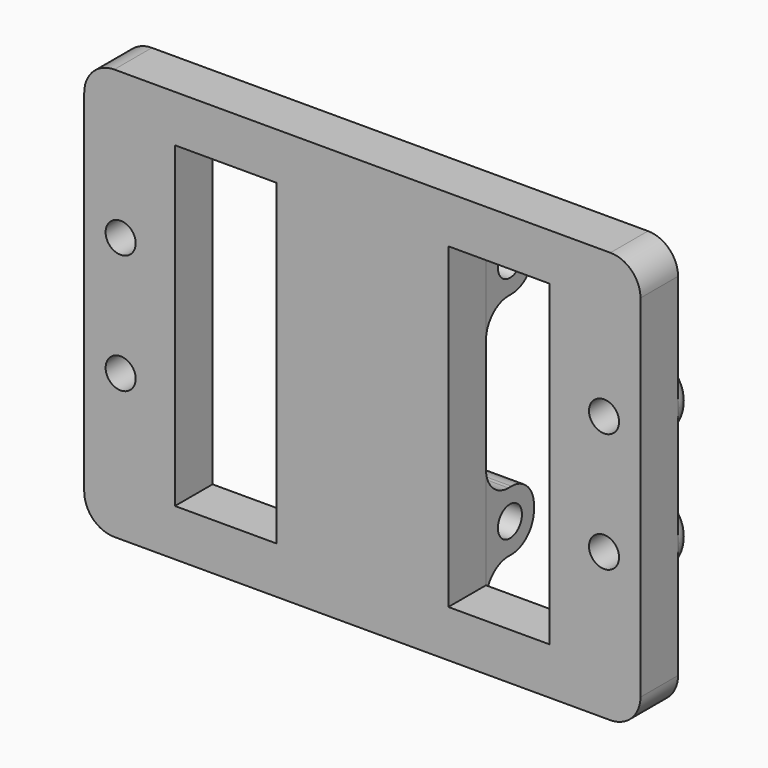
from build123d import *

# Parameters (mm, degrees)
SKETCH053_W     = 59.2
SKETCH053_H     = 43.8
SKETCH053_R     = 1.6
PAD029_DEPTH    = 5
SKETCH054_R     = 3.875
SKETCH054_R_2   = 1.6
PAD030_DEPTH    = 2
SKETCH055_W     = 6.35
SKETCH055_H     = 6.4
PAD031_DEPTH    = 6.4
SKETCH056_W     = 10.79
SKETCH056_H     = 33.8
POCKET025_DEPTH = 5
SKETCH057_R     = 1.6
POCKET026_DEPTH = 19.05
FILLET024_R     = 1.9
FILLET025_R     = 3
FILLET026_R     = 3.2


with BuildPart() as part:
    # Sketch053 → Pad029 (new body)
    with BuildSketch(Plane.XZ):
        Rectangle(SKETCH053_W, SKETCH053_H)
        with Locations((25.725, 6.35)):
            Circle(SKETCH053_R, mode=Mode.SUBTRACT)
        with Locations((-25.725, 6.35)):
            Circle(SKETCH053_R, mode=Mode.SUBTRACT)
        with Locations((-25.725, -6.35)):
            Circle(SKETCH053_R, mode=Mode.SUBTRACT)
        with Locations((25.725, -6.35)):
            Circle(SKETCH053_R, mode=Mode.SUBTRACT)
    extrude(amount=PAD029_DEPTH)

    # Sketch054 (on Face9 of Pad029) → Pad030 (join)
    with BuildSketch(Plane(origin=(0, 0, 0), x_dir=(1, 0, 0), z_dir=(0, 1, 0))):
        with Locations((-25.725, 6.35)):
            Circle(SKETCH054_R)
        with Locations((-25.725, 6.35)):
            Circle(SKETCH054_R_2, mode=Mode.SUBTRACT)
        with Locations((-25.725, -6.35)):
            Circle(SKETCH054_R)
        with Locations((-25.725, -6.35)):
            Circle(SKETCH054_R_2, mode=Mode.SUBTRACT)
        with Locations((25.725, -6.35)):
            Circle(SKETCH054_R)
        with Locations((25.725, -6.35)):
            Circle(SKETCH054_R_2, mode=Mode.SUBTRACT)
        with Locations((25.725, 6.35)):
            Circle(SKETCH054_R)
        with Locations((25.725, 6.35)):
            Circle(SKETCH054_R_2, mode=Mode.SUBTRACT)
    extrude(amount=PAD030_DEPTH)

    # Sketch055 (on Face4 of Pad030) → Pad031 (join)
    with BuildSketch(Plane(origin=(0, 0, 0), x_dir=(1, 0, 0), z_dir=(0, 1, 0))):
        with Locations((5.975, 12.2)):
            Rectangle(SKETCH055_W, SKETCH055_H)
        with Locations((5.975, -12.2)):
            Rectangle(SKETCH055_W, SKETCH055_H)
        with Locations((-5.975, -12.2)):
            Rectangle(SKETCH055_W, SKETCH055_H)
        with Locations((-5.975, 12.2)):
            Rectangle(SKETCH055_W, SKETCH055_H)
    extrude(amount=PAD031_DEPTH)

    # Sketch056 (on Face4 of Pad031) → Pocket025 (cut)
    with BuildSketch(Plane(origin=(0, 0, 0), x_dir=(1, 0, 0), z_dir=(0, 1, 0))):
        with Locations((-14.55, 0)):
            Rectangle(SKETCH056_W, SKETCH056_H)
        with Locations((14.55, 0)):
            Rectangle(SKETCH056_W, SKETCH056_H)
    extrude(amount=-POCKET025_DEPTH, mode=Mode.SUBTRACT)

    # Sketch057 (on Face8 of Pocket025) → Pocket026 (cut)
    with BuildSketch(Plane(origin=(-9.15, 0, 0), x_dir=(0, 0, -1), z_dir=(-1, 0, 0))):
        with Locations((-12.2, -3.2)):
            Circle(SKETCH057_R)
        with Locations((12.2, -3.2)):
            Circle(SKETCH057_R)
    extrude(amount=-POCKET026_DEPTH, mode=Mode.SUBTRACT)

    # Fillet024
    fillet024_edges = [part.edges().sort_by_distance(p)[0] for p in [
        (21.85, 2, 6.35),
        (21.85, 2, -6.35),
        (-29.6, 2, -6.35),
        (-29.6, 2, 6.35),
    ]]
    fillet(fillet024_edges, radius=FILLET024_R)

    # Fillet025
    fillet025_edges = [part.edges().sort_by_distance(p)[0] for p in [
        (5.975, 6.4, -15.4),
        (-5.975, 6.4, -15.4),
        (5.975, 6.4, 9),
        (-5.975, 6.4, 9),
        (5.975, 6.4, 15.4),
        (-5.975, 6.4, 15.4),
        (-5.975, 6.4, -9),
        (5.975, 6.4, -9),
        (5.975, 0, 15.4),
        (-5.975, 0, 15.4),
        (-5.975, 0, -9),
        (5.975, 0, -9),
        (5.975, 0, -15.4),
        (-5.975, 0, -15.4),
        (-5.975, 0, 9),
        (5.975, 0, 9),
    ]]
    fillet(fillet025_edges, radius=FILLET025_R)

    # Fillet026
    fillet026_edges = [part.edges().sort_by_distance(p)[0] for p in [
        (29.6, -2.5, 21.9),
        (29.6, -2.5, -21.9),
        (-29.6, -2.5, -21.9),
        (-29.6, -2.5, 21.9),
    ]]
    fillet(fillet026_edges, radius=FILLET026_R)


solid = part.part
